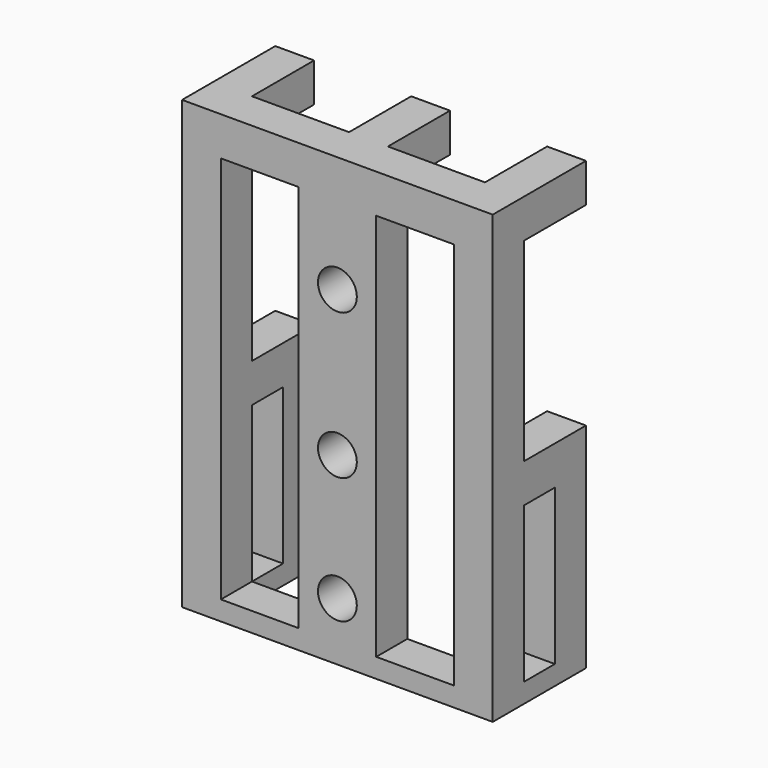
from build123d import *

# Parameters (mm, degrees)
F0_W     = 32
F0_H     = 46
F0_W_2   = 8
F0_H_2   = 40
F0_R     = 2
F1_DEPTH = 4
F2_W     = 4
F2_H     = 2
F2_H_2   = 4
F3_DEPTH = 8
F4_W     = 4
F4_H     = 22
F5_DEPTH = 4


with BuildPart() as f1:
    # F0 (on Front) → F1 (new body)
    with BuildSketch(Plane.XZ):
        with Locations((0, -23)):
            Rectangle(F0_W, F0_H)
        with Locations((-8, -24)):
            Rectangle(F0_W_2, F0_H_2, mode=Mode.SUBTRACT)
        with Locations((0, -40)):
            Circle(F0_R, mode=Mode.SUBTRACT)
        with Locations((0, -27)):
            Circle(F0_R, mode=Mode.SUBTRACT)
        with Locations((8, -24)):
            Rectangle(F0_W_2, F0_H_2, mode=Mode.SUBTRACT)
        with Locations((0, -12)):
            Circle(F0_R, mode=Mode.SUBTRACT)
    extrude(amount=F1_DEPTH)

    # F2 (on face) → F3 (join)
    with BuildSketch(Plane(origin=(0, 0, 0), x_dir=(-1, 0, 0), z_dir=(0, 1, 0))):
        with Locations((-14, -45)):
            Rectangle(F2_W, F2_H)
        with Locations((14, -45)):
            Rectangle(F2_W, F2_H)
        with Locations((-14, -2)):
            Rectangle(F2_W, F2_H_2)
        with Locations((14, -2)):
            Rectangle(F2_W, F2_H_2)
        with Locations((0, -2)):
            Rectangle(F2_W, F2_H_2)
        with Locations((-14, -26)):
            Rectangle(F2_W, F2_H_2)
        with Locations((14, -26)):
            Rectangle(F2_W, F2_H_2)
    extrude(amount=F3_DEPTH)

    # F4 (on face) → F5 (join)
    with BuildSketch(Plane(origin=(0, 8, 0), x_dir=(-1, 0, 0), z_dir=(0, 1, 0))):
        with Locations((-14, -35)):
            Rectangle(F4_W, F4_H)
        with Locations((14, -35)):
            Rectangle(F4_W, F4_H)
    extrude(amount=-F5_DEPTH)


solid = f1.part
